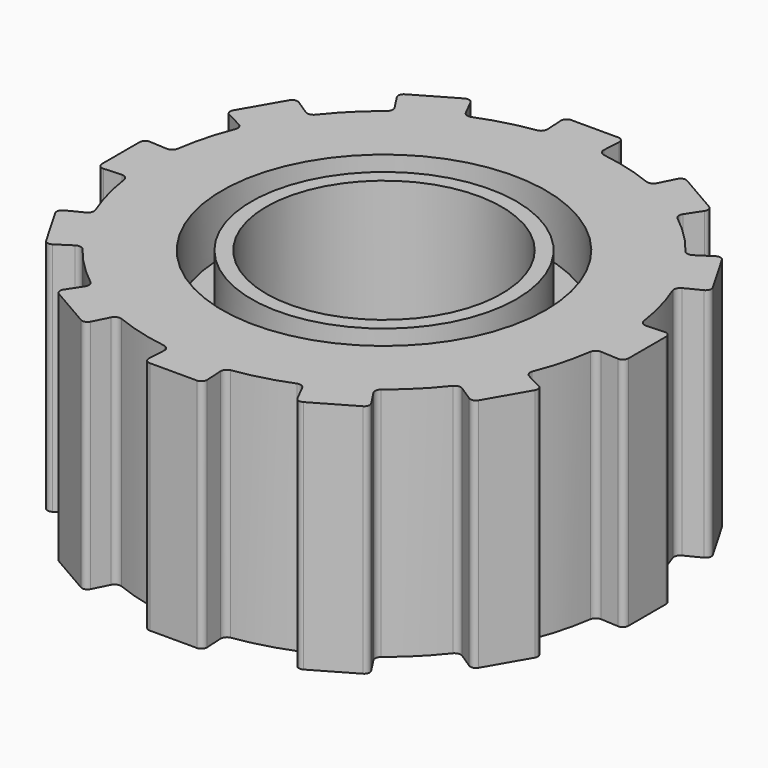
from build123d import *

# Parameters (mm, degrees)
F0_W     = 1.25
F0_H     = 2
F3_DEPTH = 25
F5_R     = 1.375
F5_R_2   = 1.125
F6_DEPTH = 0.5
F4_R     = 1.375
F4_R_2   = 1.125
F7_DEPTH = 0.5


with BuildPart() as f1:
    # F0 (on Front) → F1 (revolve)
    with BuildSketch(Plane.XZ):
        with Locations((-1.625, 1)):
            Rectangle(F0_W, F0_H)
    revolve(axis=Axis((0, 0, 1), (0, 0, 1)))

    # F2 (on face) → F3 (cut)
    with BuildSketch(Plane.XY.offset(2)):
        with BuildLine():
            Line((-0.297204915, 2.1860679775), (-0.247204915, 2.1860679775))
            Line((-0.247204915, 2.1860679775), (-0.25, 2.2360679775))
            ThreePointArc((-0.25, 2.2360679775), (-0.5823428515, 2.1733331092), (-0.9015276378, 2.0614916731))
            Line((-0.9015276378, 2.0614916731), (-0.8789482524, 2.0167928604))
            Line((-0.8789482524, 2.0167928604), (-0.811198237, 1.8826729457))
            ThreePointArc((-0.811198237, 1.8826729457), (-0.7839718639, 1.8572124815), (-0.7467415645, 1.8553643944))
            ThreePointArc((-0.7467415645, 1.8553643944), (-0.5176380902, 1.9318516526), (-0.2809850323, 1.980163481))
            Line((-0.2809850323, 1.980163481), (-0.297204915, 2.1860679775))
        make_face()
        with BuildLine():
            ThreePointArc((-0.2809850323, 1.980163481), (-0.2496666907, 2.0003791212), (-0.2388181921, 2.0360417165))
            Line((-0.2388181921, 2.0360417165), (-0.247204915, 2.1860679775))
            Line((-0.247204915, 2.1860679775), (-0.297204915, 2.1860679775))
            Line((-0.297204915, 2.1860679775), (-0.2809850323, 1.980163481))
        make_face()
        with BuildLine():
            ThreePointArc((-0.247204915, 2.1860679775), (-0.2343813322, 2.2212442947), (-0.2, 2.2360679775))
            Line((-0.2, 2.2360679775), (-0.25, 2.2360679775))
            Line((-0.25, 2.2360679775), (-0.247204915, 2.1860679775))
        make_face()
        with BuildLine():
            Line((-0.2, 2.2360679775), (0, 2.2360679775))
            Line((0, 2.2360679775), (0, 2.25))
            ThreePointArc((0, 2.25), (-0.1251939508, 2.2465142943), (-0.25, 2.2360679775))
            Line((-0.25, 2.2360679775), (-0.2, 2.2360679775))
        make_face()
        with BuildLine():
            Line((0, 2.25), (0, 2.2360679775))
            Line((0, 2.2360679775), (0.2, 2.2360679775))
            Line((0.2, 2.2360679775), (0.25, 2.2360679775))
            ThreePointArc((0.25, 2.2360679775), (0.1251939508, 2.2465142943), (0, 2.25))
        make_face()
        with BuildLine():
            Line((0.25, 2.2360679775), (0.2, 2.2360679775))
            ThreePointArc((0.2, 2.2360679775), (0.2343813322, 2.2212442947), (0.247204915, 2.1860679775))
            Line((0.247204915, 2.1860679775), (0.25, 2.2360679775))
        make_face()
        with BuildLine():
            Line((0.811198237, 1.8826729457), (0.8789482524, 2.0167928604))
            Line((0.8789482524, 2.0167928604), (0.9015276378, 2.0614916731))
            ThreePointArc((0.9015276378, 2.0614916731), (0.5823428515, 2.1733331092), (0.25, 2.2360679775))
            Line((0.25, 2.2360679775), (0.247204915, 2.1860679775))
            Line((0.247204915, 2.1860679775), (0.297204915, 2.1860679775))
            Line((0.297204915, 2.1860679775), (0.2809850323, 1.980163481))
            ThreePointArc((0.2809850323, 1.980163481), (0.5176380902, 1.9318516526), (0.7467415645, 1.8553643944))
            ThreePointArc((0.7467415645, 1.8553643944), (0.7839718639, 1.8572124815), (0.811198237, 1.8826729457))
        make_face()
        with BuildLine():
            Line((0.247204915, 2.1860679775), (0.2388181921, 2.0360417165))
            ThreePointArc((0.2388181921, 2.0360417165), (0.2496666907, 2.0003791212), (0.2809850323, 1.980163481))
            Line((0.2809850323, 1.980163481), (0.297204915, 2.1860679775))
            Line((0.297204915, 2.1860679775), (0.247204915, 2.1860679775))
        make_face()
        with BuildLine():
            Line((1.3345403397, -1.8114916731), (1.3071197251, -1.7695879454))
            ThreePointArc((1.3071197251, -1.7695879454), (1.3136023352, -1.8064633212), (1.2912390695, -1.8364916731))
            Line((1.2912390695, -1.8364916731), (1.3345403397, -1.8114916731))
        make_face()
        with BuildLine():
            ThreePointArc((0.9015276378, -2.0614916731), (1.125, -1.9485571585), (1.3345403397, -1.8114916731))
            Line((1.3345403397, -1.8114916731), (1.2912390695, -1.8364916731))
            Line((1.2912390695, -1.8364916731), (0.944828908, -2.0364916731))
            Line((0.944828908, -2.0364916731), (0.9015276378, -2.0614916731))
        make_face()
        with BuildLine():
            ThreePointArc((0.944828908, -2.0364916731), (0.9076419595, -2.0408446533), (0.8789482524, -2.0167928604))
            Line((0.8789482524, -2.0167928604), (0.9015276378, -2.0614916731))
            Line((0.9015276378, -2.0614916731), (0.944828908, -2.0364916731))
        make_face()
        with BuildLine():
            Line((0.2388181921, -2.0360417165), (0.247204915, -2.1860679775))
            Line((0.247204915, -2.1860679775), (0.25, -2.2360679775))
            ThreePointArc((0.25, -2.2360679775), (0.5823428515, -2.1733331092), (0.9015276378, -2.0614916731))
            Line((0.9015276378, -2.0614916731), (0.8789482524, -2.0167928604))
            Line((0.8789482524, -2.0167928604), (0.811198237, -1.8826729457))
            ThreePointArc((0.811198237, -1.8826729457), (0.7839718639, -1.8572124815), (0.7467415645, -1.8553643944))
            ThreePointArc((0.7467415645, -1.8553643944), (0.5176380902, -1.9318516526), (0.2809850323, -1.980163481))
            ThreePointArc((0.2809850323, -1.980163481), (0.2496666907, -2.0003791212), (0.2388181921, -2.0360417165))
        make_face()
        with BuildLine():
            Line((0.25, -2.2360679775), (0.247204915, -2.1860679775))
            ThreePointArc((0.247204915, -2.1860679775), (0.2343813322, -2.2212442947), (0.2, -2.2360679775))
            Line((0.2, -2.2360679775), (0.25, -2.2360679775))
        make_face()
        with BuildLine():
            ThreePointArc((-0.25, -2.2360679775), (0, -2.25), (0.25, -2.2360679775))
            Line((0.25, -2.2360679775), (0.2, -2.2360679775))
            Line((0.2, -2.2360679775), (-0.2, -2.2360679775))
            Line((-0.2, -2.2360679775), (-0.25, -2.2360679775))
        make_face()
        with BuildLine():
            Line((-0.811198237, -1.8826729457), (-0.8789482524, -2.0167928604))
            Line((-0.8789482524, -2.0167928604), (-0.9015276378, -2.0614916731))
            ThreePointArc((-0.9015276378, -2.0614916731), (-0.5823428515, -2.1733331092), (-0.25, -2.2360679775))
            Line((-0.25, -2.2360679775), (-0.247204915, -2.1860679775))
            Line((-0.247204915, -2.1860679775), (-0.2388181921, -2.0360417165))
            ThreePointArc((-0.2388181921, -2.0360417165), (-0.2496666907, -2.0003791212), (-0.2809850323, -1.980163481))
            ThreePointArc((-0.2809850323, -1.980163481), (-0.5176380902, -1.9318516526), (-0.7467415645, -1.8553643944))
            ThreePointArc((-0.7467415645, -1.8553643944), (-0.7839718639, -1.8572124815), (-0.811198237, -1.8826729457))
        make_face()
        with BuildLine():
            ThreePointArc((-0.2, -2.2360679775), (-0.2343813322, -2.2212442947), (-0.247204915, -2.1860679775))
            Line((-0.247204915, -2.1860679775), (-0.25, -2.2360679775))
            Line((-0.25, -2.2360679775), (-0.2, -2.2360679775))
        make_face()
        with BuildLine():
            Line((-0.944828908, -2.0364916731), (-1.2912390695, -1.8364916731))
            Line((-1.2912390695, -1.8364916731), (-1.3345403397, -1.8114916731))
            ThreePointArc((-1.3345403397, -1.8114916731), (-1.125, -1.9485571585), (-0.9015276378, -2.0614916731))
            Line((-0.9015276378, -2.0614916731), (-0.944828908, -2.0364916731))
        make_face()
        with BuildLine():
            Line((-0.9015276378, -2.0614916731), (-0.8789482524, -2.0167928604))
            ThreePointArc((-0.8789482524, -2.0167928604), (-0.9076419595, -2.0408446533), (-0.944828908, -2.0364916731))
            Line((-0.944828908, -2.0364916731), (-0.9015276378, -2.0614916731))
        make_face()
        with BuildLine():
            ThreePointArc((-1.2912390695, -1.8364916731), (-1.3136023352, -1.8064633212), (-1.3071197251, -1.7695879454))
            Line((-1.3071197251, -1.7695879454), (-1.3345403397, -1.8114916731))
            Line((-1.3345403397, -1.8114916731), (-1.2912390695, -1.8364916731))
        make_face()
        with BuildLine():
            Line((-1.6438547536, -1.2248434794), (-1.7695879454, -1.3071197251))
            Line((-1.7695879454, -1.3071197251), (-1.8114916731, -1.3345403397))
            ThreePointArc((-1.8114916731, -1.3345403397), (-1.5909902577, -1.5909902577), (-1.3345403397, -1.8114916731))
            Line((-1.3345403397, -1.8114916731), (-1.3071197251, -1.7695879454))
            Line((-1.3071197251, -1.7695879454), (-1.2248434794, -1.6438547536))
            ThreePointArc((-1.2248434794, -1.6438547536), (-1.2164072573, -1.6075457908), (-1.2334219165, -1.5743793621))
            ThreePointArc((-1.2334219165, -1.5743793621), (-1.4142135624, -1.4142135624), (-1.5743793621, -1.2334219165))
            ThreePointArc((-1.5743793621, -1.2334219165), (-1.6075457908, -1.2164072573), (-1.6438547536, -1.2248434794))
        make_face()
        with BuildLine():
            Line((-1.8114916731, -1.3345403397), (-1.7695879454, -1.3071197251))
            ThreePointArc((-1.7695879454, -1.3071197251), (-1.8064633212, -1.3136023352), (-1.8364916731, -1.2912390695))
            Line((-1.8364916731, -1.2912390695), (-1.8114916731, -1.3345403397))
        make_face()
        with BuildLine():
            Line((-1.8364916731, -1.2912390695), (-2.0364916731, -0.944828908))
            Line((-2.0364916731, -0.944828908), (-2.0614916731, -0.9015276378))
            ThreePointArc((-2.0614916731, -0.9015276378), (-1.9485571585, -1.125), (-1.8114916731, -1.3345403397))
            Line((-1.8114916731, -1.3345403397), (-1.8364916731, -1.2912390695))
        make_face()
        with BuildLine():
            ThreePointArc((-2.0364916731, -0.944828908), (-2.0408446533, -0.9076419595), (-2.0167928604, -0.8789482524))
            Line((-2.0167928604, -0.8789482524), (-2.0614916731, -0.9015276378))
            Line((-2.0614916731, -0.9015276378), (-2.0364916731, -0.944828908))
        make_face()
        with BuildLine():
            Line((-2.0360417165, -0.2388181921), (-2.1860679775, -0.247204915))
            Line((-2.1860679775, -0.247204915), (-2.2360679775, -0.25))
            ThreePointArc((-2.2360679775, -0.25), (-2.1733331092, -0.5823428515), (-2.0614916731, -0.9015276378))
            Line((-2.0614916731, -0.9015276378), (-2.0167928604, -0.8789482524))
            Line((-2.0167928604, -0.8789482524), (-1.8826729457, -0.811198237))
            ThreePointArc((-1.8826729457, -0.811198237), (-1.8572124815, -0.7839718639), (-1.8553643944, -0.7467415645))
            ThreePointArc((-1.8553643944, -0.7467415645), (-1.9318516526, -0.5176380902), (-1.980163481, -0.2809850323))
            ThreePointArc((-1.980163481, -0.2809850323), (-2.0003791212, -0.2496666907), (-2.0360417165, -0.2388181921))
        make_face()
        with BuildLine():
            Line((-2.2360679775, -0.25), (-2.1860679775, -0.247204915))
            ThreePointArc((-2.1860679775, -0.247204915), (-2.2212442947, -0.2343813322), (-2.2360679775, -0.2))
            Line((-2.2360679775, -0.2), (-2.2360679775, -0.25))
        make_face()
        with BuildLine():
            Line((-2.2360679775, -0.2), (-2.2360679775, 0.2))
            Line((-2.2360679775, 0.2), (-2.2360679775, 0.25))
            ThreePointArc((-2.2360679775, 0.25), (-2.25, 0), (-2.2360679775, -0.25))
            Line((-2.2360679775, -0.25), (-2.2360679775, -0.2))
        make_face()
        with BuildLine():
            ThreePointArc((-2.2360679775, 0.2), (-2.2212442947, 0.2343813322), (-2.1860679775, 0.247204915))
            Line((-2.1860679775, 0.247204915), (-2.2360679775, 0.25))
            Line((-2.2360679775, 0.25), (-2.2360679775, 0.2))
        make_face()
        with BuildLine():
            Line((-2.0364916731, 0.944828908), (-1.8364916731, 1.2912390695))
            Line((-1.8364916731, 1.2912390695), (-1.8114916731, 1.3345403397))
            ThreePointArc((-1.8114916731, 1.3345403397), (-1.9485571585, 1.125), (-2.0614916731, 0.9015276378))
            Line((-2.0614916731, 0.9015276378), (-2.0364916731, 0.944828908))
        make_face()
        with BuildLine():
            Line((-2.0614916731, 0.9015276378), (-2.0167928604, 0.8789482524))
            ThreePointArc((-2.0167928604, 0.8789482524), (-2.0408446533, 0.9076419595), (-2.0364916731, 0.944828908))
            Line((-2.0364916731, 0.944828908), (-2.0614916731, 0.9015276378))
        make_face()
        with BuildLine():
            Line((-1.8826729457, 0.811198237), (-2.0167928604, 0.8789482524))
            Line((-2.0167928604, 0.8789482524), (-2.0614916731, 0.9015276378))
            ThreePointArc((-2.0614916731, 0.9015276378), (-2.1733331092, 0.5823428515), (-2.2360679775, 0.25))
            Line((-2.2360679775, 0.25), (-2.1860679775, 0.247204915))
            Line((-2.1860679775, 0.247204915), (-2.0360417165, 0.2388181921))
            ThreePointArc((-2.0360417165, 0.2388181921), (-2.0003791212, 0.2496666907), (-1.980163481, 0.2809850323))
            ThreePointArc((-1.980163481, 0.2809850323), (-1.9318516526, 0.5176380902), (-1.8553643944, 0.7467415645))
            ThreePointArc((-1.8553643944, 0.7467415645), (-1.8572124815, 0.7839718639), (-1.8826729457, 0.811198237))
        make_face()
        with BuildLine():
            ThreePointArc((-1.8364916731, 1.2912390695), (-1.8064633212, 1.3136023352), (-1.7695879454, 1.3071197251))
            Line((-1.7695879454, 1.3071197251), (-1.8114916731, 1.3345403397))
            Line((-1.8114916731, 1.3345403397), (-1.8364916731, 1.2912390695))
        make_face()
        with BuildLine():
            Line((-1.2248434794, 1.6438547536), (-1.3071197251, 1.7695879454))
            Line((-1.3071197251, 1.7695879454), (-1.3345403397, 1.8114916731))
            ThreePointArc((-1.3345403397, 1.8114916731), (-1.5909902577, 1.5909902577), (-1.8114916731, 1.3345403397))
            Line((-1.8114916731, 1.3345403397), (-1.7695879454, 1.3071197251))
            Line((-1.7695879454, 1.3071197251), (-1.6438547536, 1.2248434794))
            ThreePointArc((-1.6438547536, 1.2248434794), (-1.6075457908, 1.2164072573), (-1.5743793621, 1.2334219165))
            ThreePointArc((-1.5743793621, 1.2334219165), (-1.4142135624, 1.4142135624), (-1.2334219165, 1.5743793621))
            ThreePointArc((-1.2334219165, 1.5743793621), (-1.2164072573, 1.6075457908), (-1.2248434794, 1.6438547536))
        make_face()
        with BuildLine():
            Line((-1.3345403397, 1.8114916731), (-1.3071197251, 1.7695879454))
            ThreePointArc((-1.3071197251, 1.7695879454), (-1.3136023352, 1.8064633212), (-1.2912390695, 1.8364916731))
            Line((-1.2912390695, 1.8364916731), (-1.3345403397, 1.8114916731))
        make_face()
        with BuildLine():
            ThreePointArc((-0.944828908, 2.0364916731), (-0.9076419595, 2.0408446533), (-0.8789482524, 2.0167928604))
            Line((-0.8789482524, 2.0167928604), (-0.9015276378, 2.0614916731))
            Line((-0.9015276378, 2.0614916731), (-0.944828908, 2.0364916731))
        make_face()
        with BuildLine():
            Line((-0.944828908, 2.0364916731), (-0.9015276378, 2.0614916731))
            ThreePointArc((-0.9015276378, 2.0614916731), (-1.125, 1.9485571585), (-1.3345403397, 1.8114916731))
            Line((-1.3345403397, 1.8114916731), (-1.2912390695, 1.8364916731))
            Line((-1.2912390695, 1.8364916731), (-0.944828908, 2.0364916731))
        make_face()
        with BuildLine():
            Line((1.2248434794, -1.6438547536), (1.3071197251, -1.7695879454))
            Line((1.3071197251, -1.7695879454), (1.3345403397, -1.8114916731))
            ThreePointArc((1.3345403397, -1.8114916731), (1.5909902577, -1.5909902577), (1.8114916731, -1.3345403397))
            Line((1.8114916731, -1.3345403397), (1.7695879454, -1.3071197251))
            Line((1.7695879454, -1.3071197251), (1.6438547536, -1.2248434794))
            ThreePointArc((1.6438547536, -1.2248434794), (1.6075457908, -1.2164072573), (1.5743793621, -1.2334219165))
            ThreePointArc((1.5743793621, -1.2334219165), (1.4142135624, -1.4142135624), (1.2334219165, -1.5743793621))
            ThreePointArc((1.2334219165, -1.5743793621), (1.2164072573, -1.6075457908), (1.2248434794, -1.6438547536))
        make_face()
        with BuildLine():
            ThreePointArc((1.8364916731, -1.2912390695), (1.8064633212, -1.3136023352), (1.7695879454, -1.3071197251))
            Line((1.7695879454, -1.3071197251), (1.8114916731, -1.3345403397))
            Line((1.8114916731, -1.3345403397), (1.8364916731, -1.2912390695))
        make_face()
        with BuildLine():
            ThreePointArc((1.8114916731, -1.3345403397), (1.9485571585, -1.125), (2.0614916731, -0.9015276378))
            Line((2.0614916731, -0.9015276378), (2.0364916731, -0.944828908))
            Line((2.0364916731, -0.944828908), (1.8364916731, -1.2912390695))
            Line((1.8364916731, -1.2912390695), (1.8114916731, -1.3345403397))
        make_face()
        with BuildLine():
            Line((2.0614916731, -0.9015276378), (2.0167928604, -0.8789482524))
            ThreePointArc((2.0167928604, -0.8789482524), (2.0408446533, -0.9076419595), (2.0364916731, -0.944828908))
            Line((2.0364916731, -0.944828908), (2.0614916731, -0.9015276378))
        make_face()
        with BuildLine():
            Line((1.8826729457, -0.811198237), (2.0167928604, -0.8789482524))
            Line((2.0167928604, -0.8789482524), (2.0614916731, -0.9015276378))
            ThreePointArc((2.0614916731, -0.9015276378), (2.1733331092, -0.5823428515), (2.2360679775, -0.25))
            Line((2.2360679775, -0.25), (2.1860679775, -0.247204915))
            Line((2.1860679775, -0.247204915), (2.0360417165, -0.2388181921))
            ThreePointArc((2.0360417165, -0.2388181921), (2.0003791212, -0.2496666907), (1.980163481, -0.2809850323))
            ThreePointArc((1.980163481, -0.2809850323), (1.9318516526, -0.5176380902), (1.8553643944, -0.7467415645))
            ThreePointArc((1.8553643944, -0.7467415645), (1.8572124815, -0.7839718639), (1.8826729457, -0.811198237))
        make_face()
        with BuildLine():
            ThreePointArc((2.2360679775, -0.2), (2.2212442947, -0.2343813322), (2.1860679775, -0.247204915))
            Line((2.1860679775, -0.247204915), (2.2360679775, -0.25))
            Line((2.2360679775, -0.25), (2.2360679775, -0.2))
        make_face()
        with BuildLine():
            ThreePointArc((2.25, 0), (2.2465142943, 0.1251939508), (2.2360679775, 0.25))
            Line((2.2360679775, 0.25), (2.2360679775, 0.2))
            Line((2.2360679775, 0.2), (2.2360679775, -0.2))
            Line((2.2360679775, -0.2), (2.2360679775, -0.25))
            ThreePointArc((2.2360679775, -0.25), (2.2465142943, -0.1251939508), (2.25, 0))
        make_face()
        with BuildLine():
            Line((2.2360679775, 0.25), (2.1860679775, 0.247204915))
            ThreePointArc((2.1860679775, 0.247204915), (2.2212442947, 0.2343813322), (2.2360679775, 0.2))
            Line((2.2360679775, 0.2), (2.2360679775, 0.25))
        make_face()
        with BuildLine():
            ThreePointArc((1.3345403397, 1.8114916731), (1.125, 1.9485571585), (0.9015276378, 2.0614916731))
            Line((0.9015276378, 2.0614916731), (0.944828908, 2.0364916731))
            Line((0.944828908, 2.0364916731), (1.2912390695, 1.8364916731))
            Line((1.2912390695, 1.8364916731), (1.3345403397, 1.8114916731))
        make_face()
        with BuildLine():
            Line((0.9015276378, 2.0614916731), (0.8789482524, 2.0167928604))
            ThreePointArc((0.8789482524, 2.0167928604), (0.9076419595, 2.0408446533), (0.944828908, 2.0364916731))
            Line((0.944828908, 2.0364916731), (0.9015276378, 2.0614916731))
        make_face()
        with BuildLine():
            ThreePointArc((1.2912390695, 1.8364916731), (1.3136023352, 1.8064633212), (1.3071197251, 1.7695879454))
            Line((1.3071197251, 1.7695879454), (1.3345403397, 1.8114916731))
            Line((1.3345403397, 1.8114916731), (1.2912390695, 1.8364916731))
        make_face()
        with BuildLine():
            Line((1.6438547536, 1.2248434794), (1.7695879454, 1.3071197251))
            Line((1.7695879454, 1.3071197251), (1.8114916731, 1.3345403397))
            ThreePointArc((1.8114916731, 1.3345403397), (1.5909902577, 1.5909902577), (1.3345403397, 1.8114916731))
            Line((1.3345403397, 1.8114916731), (1.3071197251, 1.7695879454))
            Line((1.3071197251, 1.7695879454), (1.2248434794, 1.6438547536))
            ThreePointArc((1.2248434794, 1.6438547536), (1.2164072573, 1.6075457908), (1.2334219165, 1.5743793621))
            ThreePointArc((1.2334219165, 1.5743793621), (1.4142135624, 1.4142135624), (1.5743793621, 1.2334219165))
            ThreePointArc((1.5743793621, 1.2334219165), (1.6075457908, 1.2164072573), (1.6438547536, 1.2248434794))
        make_face()
        with BuildLine():
            ThreePointArc((2.0614916731, 0.9015276378), (1.9485571585, 1.125), (1.8114916731, 1.3345403397))
            Line((1.8114916731, 1.3345403397), (1.8364916731, 1.2912390695))
            Line((1.8364916731, 1.2912390695), (2.0364916731, 0.944828908))
            Line((2.0364916731, 0.944828908), (2.0614916731, 0.9015276378))
        make_face()
        with BuildLine():
            Line((1.8114916731, 1.3345403397), (1.7695879454, 1.3071197251))
            ThreePointArc((1.7695879454, 1.3071197251), (1.8064633212, 1.3136023352), (1.8364916731, 1.2912390695))
            Line((1.8364916731, 1.2912390695), (1.8114916731, 1.3345403397))
        make_face()
        with BuildLine():
            ThreePointArc((2.0364916731, 0.944828908), (2.0408446533, 0.9076419595), (2.0167928604, 0.8789482524))
            Line((2.0167928604, 0.8789482524), (2.0614916731, 0.9015276378))
            Line((2.0614916731, 0.9015276378), (2.0364916731, 0.944828908))
        make_face()
        with BuildLine():
            Line((2.0360417165, 0.2388181921), (2.1860679775, 0.247204915))
            Line((2.1860679775, 0.247204915), (2.2360679775, 0.25))
            ThreePointArc((2.2360679775, 0.25), (2.1733331092, 0.5823428515), (2.0614916731, 0.9015276378))
            Line((2.0614916731, 0.9015276378), (2.0167928604, 0.8789482524))
            Line((2.0167928604, 0.8789482524), (1.8826729457, 0.811198237))
            ThreePointArc((1.8826729457, 0.811198237), (1.8572124815, 0.7839718639), (1.8553643944, 0.7467415645))
            ThreePointArc((1.8553643944, 0.7467415645), (1.9318516526, 0.5176380902), (1.980163481, 0.2809850323))
            ThreePointArc((1.980163481, 0.2809850323), (2.0003791212, 0.2496666907), (2.0360417165, 0.2388181921))
        make_face()
    extrude(amount=-F3_DEPTH, mode=Mode.SUBTRACT)

    # F5 (on face) → F6 (cut)
    with BuildSketch(Plane(origin=(0, 0, 0), x_dir=(1, 0, 0), z_dir=(0, 0, -1))):
        Circle(F5_R)
        Circle(F5_R_2, mode=Mode.SUBTRACT)
    extrude(amount=-F6_DEPTH, mode=Mode.SUBTRACT)

    # F4 (on face) → F7 (cut)
    with BuildSketch(Plane.XY.offset(2)):
        Circle(F4_R)
        Circle(F4_R_2, mode=Mode.SUBTRACT)
    extrude(amount=-F7_DEPTH, mode=Mode.SUBTRACT)


solid = f1.part
